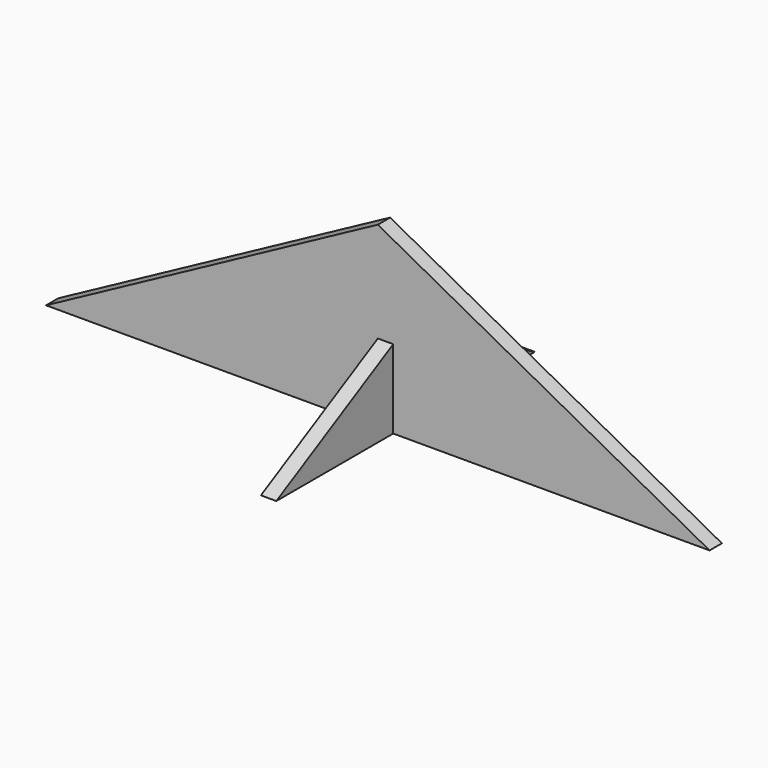
from build123d import *

# Parameters (mm, degrees)
F2_DEPTH = 2.54
F3_DEPTH = 2.54


with BuildPart() as f2:
    # F0 (on Front) → F2 (new body)
    with BuildSketch(Plane.XZ):
        Polygon((0, 29.5), (0, 0), (54.71, 0), align=None)
        Polygon((-54.71, 0), (0, 0), (0, 29.5), align=None)
    extrude(amount=F2_DEPTH)


with BuildPart() as f3:
    # F1 (on Right) → F3 (new body)
    with BuildSketch(Plane.YZ):
        Polygon((26.64, 0), (0, 14.35), (0, 0), align=None)
        Polygon((0, 0), (0, 14.35), (-26.64, 0), align=None)
    extrude(amount=F3_DEPTH)


solid = Compound([f2.part, f3.part])
